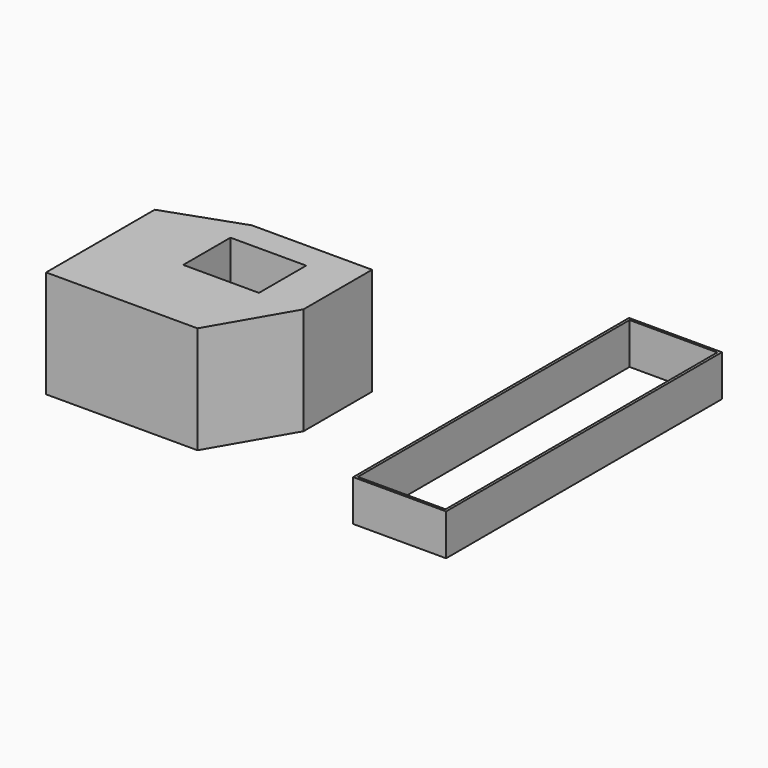
from build123d import *

# Parameters (mm, degrees)
F0_W     = 90
F0_H     = 334
F1_DEPTH = 40
F2_T     = -2.5
F4_DEPTH = 104


with BuildPart() as f1:
    # F0 (on Top) → F1 (new body)
    with BuildSketch(Plane.XY):
        with Locations((1.543468, 146.28129)):
            Rectangle(F0_W, F0_H)
    extrude(amount=F1_DEPTH)

    # F2
    f2_openings = [f1.faces().sort_by_distance(p)[0] for p in [
        (1.543468, 146.28129, 40),
        (1.543468, 146.28129, 0),
    ]]
    offset(amount=F2_T, openings=f2_openings)


with BuildPart() as f4:
    # F3 (on Top) → F4 (new body)
    with BuildSketch(Plane.XY):
        Polygon((-284.235284, 157.489002), (-357.586324, 131.600395), (-284.235284, 131.600395), align=None)
        Polygon((-284.235284, 131.600395), (-357.586324, 131.600395), (-357.586324, 0), (-284.235284, 74.429728), align=None)
        Polygon((-284.235284, 157.489002), (-284.235284, 131.600395), (-210.884243, 131.600395), (-167.73656, 157.489002), align=None)
        Polygon((-284.235284, 74.429728), (-357.586324, 0), (-210.884243, 0), (-210.884243, 74.429728), align=None)
        Polygon((-167.73656, 157.489002), (-210.884243, 131.600395), (-210.884243, 74.429728), (-167.73656, 74.429728), align=None)
        Polygon((-210.884243, 74.429728), (-210.884243, 0), (-167.73656, 74.429728), align=None)
    extrude(amount=F4_DEPTH)


solid = Compound([f1.part, f4.part])
